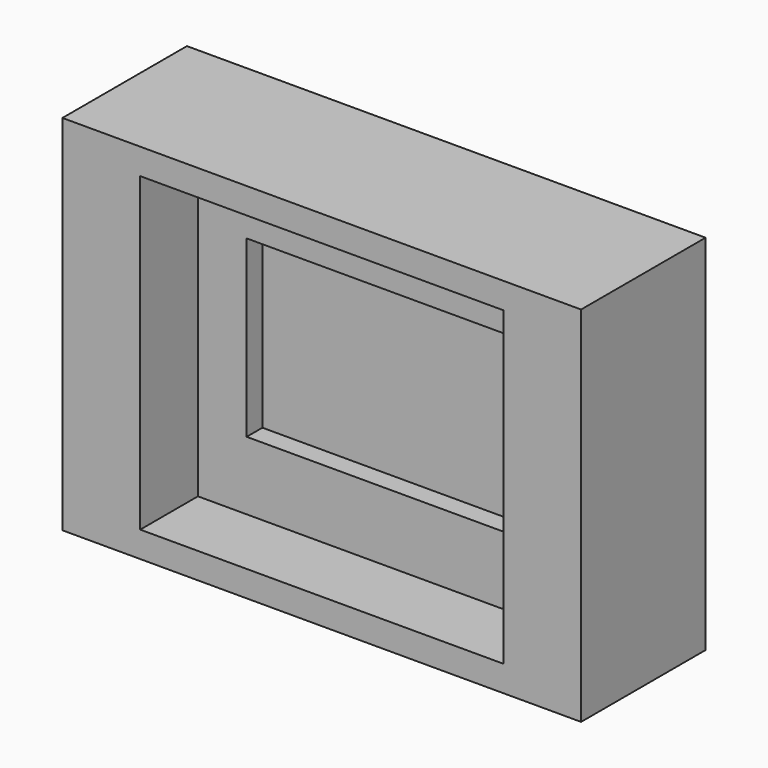
from build123d import *

# Parameters (mm, degrees)
F0_W     = 100
F0_H     = 70
F1_DEPTH = 30
F2_W     = 70
F2_H     = 60
F3_DEPTH = 13.9
F4_W     = 51.206012
F4_H     = 33.682036
F5_DEPTH = 3.8


with BuildPart() as f1:
    # F0 (on Front) → F1 (new body)
    with BuildSketch(Plane.XZ):
        Rectangle(F0_W, F0_H)
    extrude(amount=F1_DEPTH)

    # F2 (on face) → F3 (cut)
    with BuildSketch(Plane.XZ.offset(30)):
        Rectangle(F2_W, F2_H)
    extrude(amount=-F3_DEPTH, mode=Mode.SUBTRACT)

    # F4 (on face) → F5 (cut)
    with BuildSketch(Plane.XZ.offset(16.1)):
        Rectangle(F4_W, F4_H)
    extrude(amount=-F5_DEPTH, mode=Mode.SUBTRACT)


solid = f1.part
